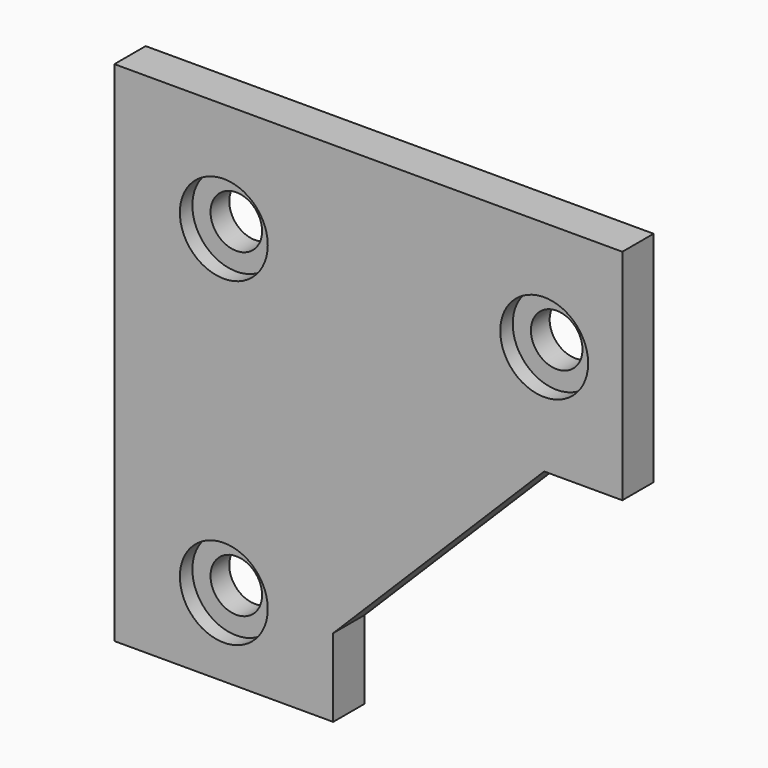
from build123d import *

# Parameters (mm, degrees)
F0_R           = 3.3
F1_DEPTH       = 5
F2_D           = 6.6
F2_DEPTH       = 20
F2_CBORE_D     = 11.25
F2_CBORE_DEPTH = 2


with BuildPart() as f1:
    # F0 (on Front) → F1 (new body)
    with BuildSketch(Plane.XZ):
        Polygon((0, 65), (0, 0), (28, 0), (28, 10), (55, 37), (65, 37), (65, 65), align=None)
        with Locations((14, 10)):
            Circle(F0_R, mode=Mode.SUBTRACT)
        with Locations((14, 51)):
            Circle(F0_R, mode=Mode.SUBTRACT)
        with Locations((55, 51)):
            Circle(F0_R, mode=Mode.SUBTRACT)
    extrude(amount=-F1_DEPTH)

    # F2
    with Locations(Plane.XZ):
        with Locations((14, 51), (55, 51), (14, 10)):
            CounterBoreHole(F2_D / 2, F2_CBORE_D / 2, F2_CBORE_DEPTH, depth=F2_DEPTH)


solid = f1.part
